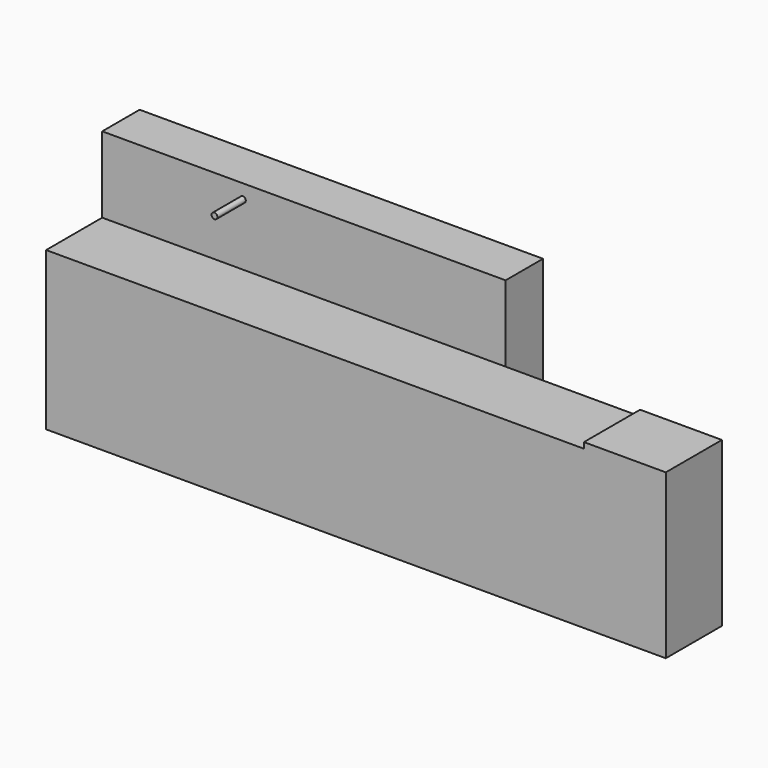
from build123d import *

# Parameters (mm, degrees)
F1_DEPTH = 673.1
F2_W     = 234.95
F2_H     = 50.8
F3_DEPTH = 254.001
F4_W     = 88.9
F4_H     = 76.2
F5_DEPTH = 6.35
F6_R     = 3.175
F7_DEPTH = 38.52672


with BuildPart() as f1:
    # F0 (on Right) → F1 (new body)
    with BuildSketch(Plane.YZ):
        Polygon((-63.5, 44.45), (-63.5, -127), (63.5, -127), (63.5, 127), (12.7, 127), (12.7, 44.45), align=None)
    extrude(amount=F1_DEPTH)

    # F2 (on face) → F3 (cut, through all)
    with BuildSketch(Plane.XY.offset(127)):
        with Locations((555.625, 38.1)):
            Rectangle(F2_W, F2_H)
    extrude(amount=-F3_DEPTH, mode=Mode.SUBTRACT)

    # F4 (on face) → F5 (join)
    with BuildSketch(Plane.XY.offset(44.45)):
        with Locations((628.65, -25.4)):
            Rectangle(F4_W, F4_H)
    extrude(amount=F5_DEPTH)

    # F6 (on face) → F7 (join)
    with BuildSketch(Plane.XZ.offset(-12.7)):
        with Locations((152.781, 111.4806)):
            Circle(F6_R)
    extrude(amount=F7_DEPTH)


solid = f1.part
